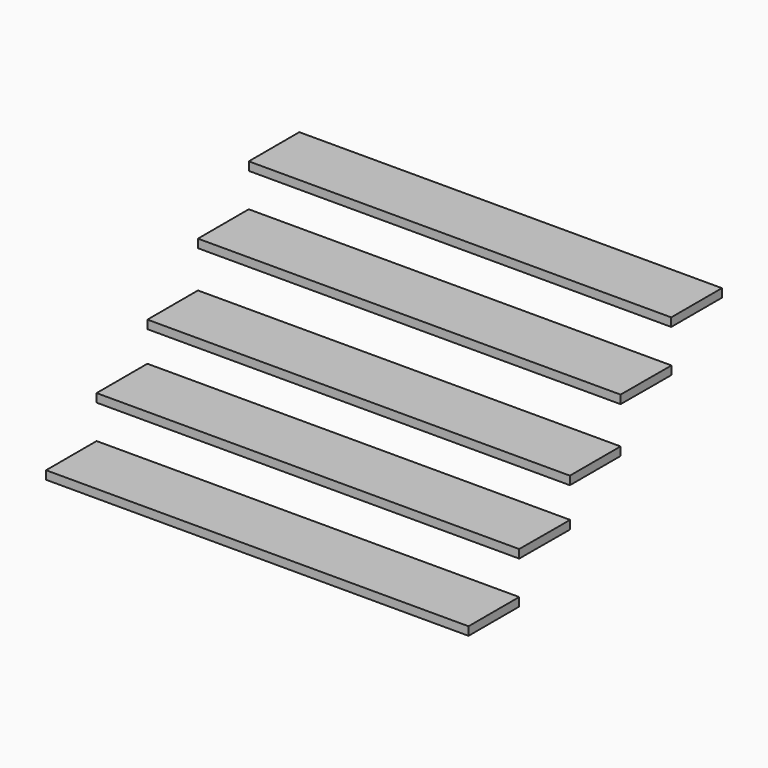
from build123d import *

# Parameters (mm, degrees)
F0_W     = 15.875
F0_H     = 15.875
F1_DEPTH = 3.175
F2_START = 15.875
F0_W_2   = 15.9210213366
F2_DEPTH = 3.175
F3_START = 30.48
F3_DEPTH = 3.175
F4_START = 47.625
F4_DEPTH = 3.175
F5_START = 63.5
F5_DEPTH = 3.175


with BuildPart() as f1:
    # F0 (on Top) → F1 (new body)
    with BuildSketch(Plane.XY):
        Polygon((-0.0104455087, 23.7426335154), (0, 0), (0, 15.875), (15.875, 15.875), (15.875, 0), (31.75, 0), (31.75, 15.875), (47.625, 15.875), (47.625, 0), (63.5, 0), (63.5, 15.875), (79.375, 15.875), (79.375, 0), (95.25, 0), (95.25, 15.875), (111.125, 15.875), (111.125, 0), (127, 0), (127, 15.875), (142.875, 15.875), (142.875, 0), (158.7960213366, 0), (158.7960213366, 23.8125), align=None)
        with Locations((7.9375, 7.9375)):
            Rectangle(F0_W, F0_H)
        with Locations((39.6875, 7.9375)):
            Rectangle(F0_W, F0_H)
        with Locations((71.4375, 7.9375)):
            Rectangle(F0_W, F0_H)
        with Locations((103.1875, 7.9375)):
            Rectangle(F0_W, F0_H)
        with Locations((134.9375, 7.9375)):
            Rectangle(F0_W, F0_H)
    extrude(amount=F1_DEPTH)


with BuildPart() as f2:
    # F0 (on Top) → F2 (new body)
    with BuildSketch(Plane.XY.offset(F2_START)):
        Polygon((-0.0209524146, 47.6248225997), (-0.0104455087, 23.7426335154), (158.7960213366, 23.8125), (158.8879379052, 47.6248225997), align=None)
        with Locations((23.8355106683, 31.75)):
            Rectangle(F0_W_2, F0_H, mode=Mode.SUBTRACT)
        with Locations((55.5855106683, 31.75)):
            Rectangle(F0_W_2, F0_H, mode=Mode.SUBTRACT)
        with Locations((87.3355106683, 31.75)):
            Rectangle(F0_W_2, F0_H, mode=Mode.SUBTRACT)
        with Locations((119.0855106683, 31.75)):
            Rectangle(F0_W_2, F0_H, mode=Mode.SUBTRACT)
        with Locations((150.8355106683, 31.75)):
            Rectangle(F0_W_2, F0_H, mode=Mode.SUBTRACT)
        with Locations((23.8355106683, 31.75)):
            Rectangle(F0_W_2, F0_H)
        with Locations((55.5855106683, 31.75)):
            Rectangle(F0_W_2, F0_H)
        with Locations((87.3355106683, 31.75)):
            Rectangle(F0_W_2, F0_H)
        with Locations((119.0855106683, 31.75)):
            Rectangle(F0_W_2, F0_H)
        with Locations((150.8355106683, 31.75)):
            Rectangle(F0_W_2, F0_H)
    extrude(amount=F2_DEPTH)


with BuildPart() as f3:
    # F0 (on Top) → F3 (new body)
    with BuildSketch(Plane.XY.offset(F3_START)):
        Polygon((158.7960213366, 47.625), (158.7960213366, 71.4375), (-0.0104455087, 71.3676335154), (0, 47.625), (0, 63.5), (15.875, 63.5), (15.875, 47.625), (31.75, 47.625), (31.75, 63.5), (47.625, 63.5), (47.625, 47.625), (63.5, 47.625), (63.5, 63.5), (79.375, 63.5), (79.375, 47.625), (95.25, 47.625), (95.25, 63.5), (111.125, 63.5), (111.125, 47.625), (127, 47.625), (127, 63.5), (142.875, 63.5), (142.875, 47.625), align=None)
        with Locations((7.9375, 55.5625)):
            Rectangle(F0_W, F0_H)
        with Locations((39.6875, 55.5625)):
            Rectangle(F0_W, F0_H)
        with Locations((71.4375, 55.5625)):
            Rectangle(F0_W, F0_H)
        with Locations((103.1875, 55.5625)):
            Rectangle(F0_W, F0_H)
        with Locations((134.9375, 55.5625)):
            Rectangle(F0_W, F0_H)
    extrude(amount=F3_DEPTH)


with BuildPart() as f4:
    # F0 (on Top) → F4 (new body)
    with BuildSketch(Plane.XY.offset(F4_START)):
        Polygon((-0.0104455087, 71.3676335154), (158.7960213366, 71.4375), (158.8879379052, 95.2498225997), (-0.0209524146, 95.2498225997), align=None)
        with Locations((23.8355106683, 79.375)):
            Rectangle(F0_W_2, F0_H, mode=Mode.SUBTRACT)
        with Locations((55.5855106683, 79.375)):
            Rectangle(F0_W_2, F0_H, mode=Mode.SUBTRACT)
        with Locations((87.3355106683, 79.375)):
            Rectangle(F0_W_2, F0_H, mode=Mode.SUBTRACT)
        with Locations((119.0855106683, 79.375)):
            Rectangle(F0_W_2, F0_H, mode=Mode.SUBTRACT)
        with Locations((150.8355106683, 79.375)):
            Rectangle(F0_W_2, F0_H, mode=Mode.SUBTRACT)
        with Locations((23.8355106683, 79.375)):
            Rectangle(F0_W_2, F0_H)
        with Locations((55.5855106683, 79.375)):
            Rectangle(F0_W_2, F0_H)
        with Locations((87.3355106683, 79.375)):
            Rectangle(F0_W_2, F0_H)
        with Locations((119.0855106683, 79.375)):
            Rectangle(F0_W_2, F0_H)
        with Locations((150.8355106683, 79.375)):
            Rectangle(F0_W_2, F0_H)
    extrude(amount=F4_DEPTH)


with BuildPart() as f5:
    # F0 (on Top) → F5 (new body)
    with BuildSketch(Plane.XY.offset(F5_START)):
        with Locations((7.9375, 103.1875)):
            Rectangle(F0_W, F0_H)
        Polygon((142.875, 111.125), (142.875, 95.25), (158.7960213366, 95.25), (158.7960213366, 119.0625), (-0.0104455087, 118.9926335154), (0, 95.25), (0, 111.125), (15.875, 111.125), (15.875, 95.25), (31.75, 95.25), (31.75, 111.125), (47.625, 111.125), (47.625, 95.25), (63.5, 95.25), (63.5, 111.125), (79.375, 111.125), (79.375, 95.25), (95.25, 95.25), (95.25, 111.125), (111.125, 111.125), (111.125, 95.25), (127, 95.25), (127, 111.125), align=None)
        with Locations((39.6875, 103.1875)):
            Rectangle(F0_W, F0_H)
        with Locations((71.4375, 103.1875)):
            Rectangle(F0_W, F0_H)
        with Locations((103.1875, 103.1875)):
            Rectangle(F0_W, F0_H)
        with Locations((134.9375, 103.1875)):
            Rectangle(F0_W, F0_H)
    extrude(amount=F5_DEPTH)


solid = Compound([f1.part, f2.part, f3.part, f4.part, f5.part])
